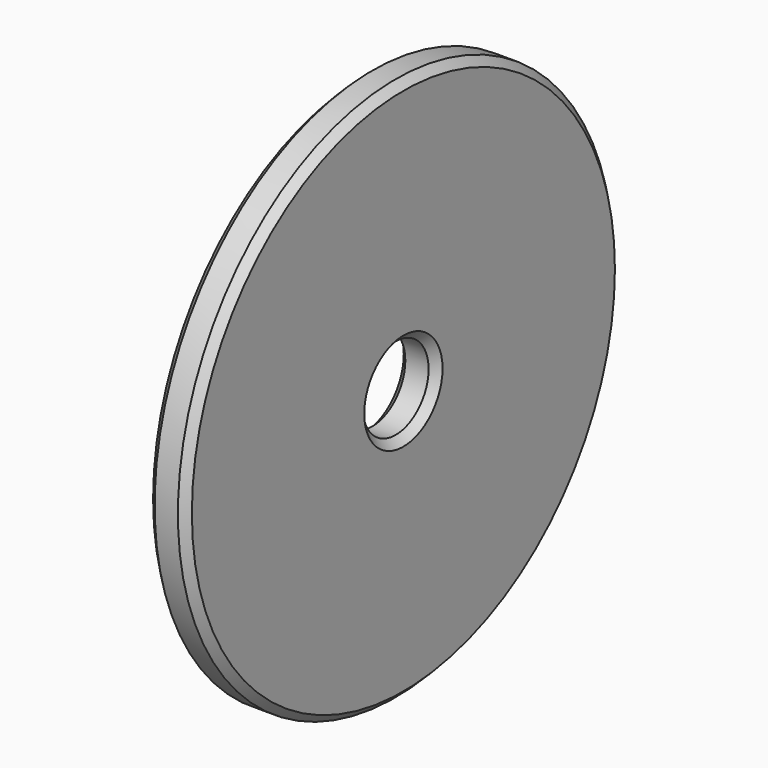
from build123d import *

# Parameters (mm, degrees)
F0_W    = 6.35
F0_H    = 37.83076
F2_SIZE = 1.27


with BuildPart() as f1:
    # F0 (on Top) → F1 (revolve)
    with BuildSketch(Plane.XY):
        with Locations((3.175, 25.66162)):
            Rectangle(F0_W, F0_H)
    revolve(axis=Axis((3.175, 0, 0), (1, 0, 0)))

    # F2
    f2_edges = [f1.edges().sort_by_distance(p)[0] for p in [
        (6.35, -44.577, 0),
        (0, -44.577, 0),
        (6.35, -6.74624, 0),
        (0, -6.74624, 0),
    ]]
    chamfer(f2_edges, length=F2_SIZE)


solid = f1.part
